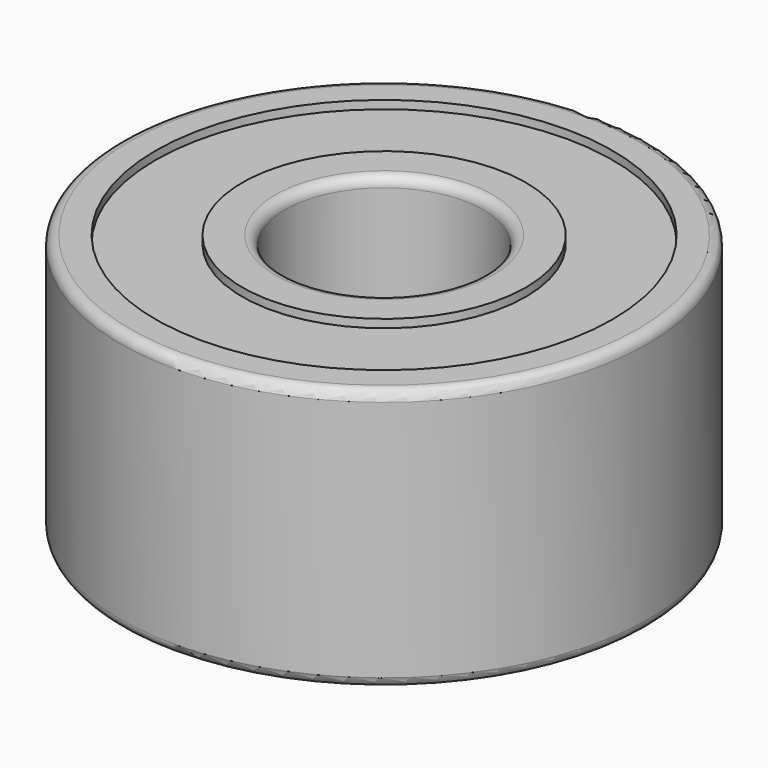
from build123d import *

# Parameters (mm, degrees)
F0_R     = 16
F0_R_2   = 6
F1_DEPTH = 15.9
F2_R     = 0.6
F3_R     = 13.85
F3_R_2   = 8.6
F4_DEPTH = 0.5
F5_R     = 13.85
F5_R_2   = 8.6
F6_DEPTH = 0.5


with BuildPart() as f1:
    # F0 (on Top) → F1 (new body)
    with BuildSketch(Plane.XY):
        Circle(F0_R)
        Circle(F0_R_2, mode=Mode.SUBTRACT)
    extrude(amount=F1_DEPTH)

    # F2
    f2_edges = [f1.edges().sort_by_distance(p)[0] for p in [
        (6, 0, 7.95),
        (-6, 0, 0),
        (-6, 0, 15.9),
        (16, 0, 7.95),
        (-16, 0, 0),
        (-16, 0, 15.9),
    ]]
    fillet(f2_edges, radius=F2_R)

    # F3 (on face) → F4 (cut)
    with BuildSketch(Plane.XY.offset(15.9)):
        Circle(F3_R)
        Circle(F3_R_2, mode=Mode.SUBTRACT)
    extrude(amount=-F4_DEPTH, mode=Mode.SUBTRACT)

    # F5 (on face) → F6 (cut)
    with BuildSketch(Plane(origin=(0, 0, 0), x_dir=(1, 0, 0), z_dir=(0, 0, -1))):
        Circle(F5_R)
        Circle(F5_R_2, mode=Mode.SUBTRACT)
    extrude(amount=-F6_DEPTH, mode=Mode.SUBTRACT)


solid = f1.part
